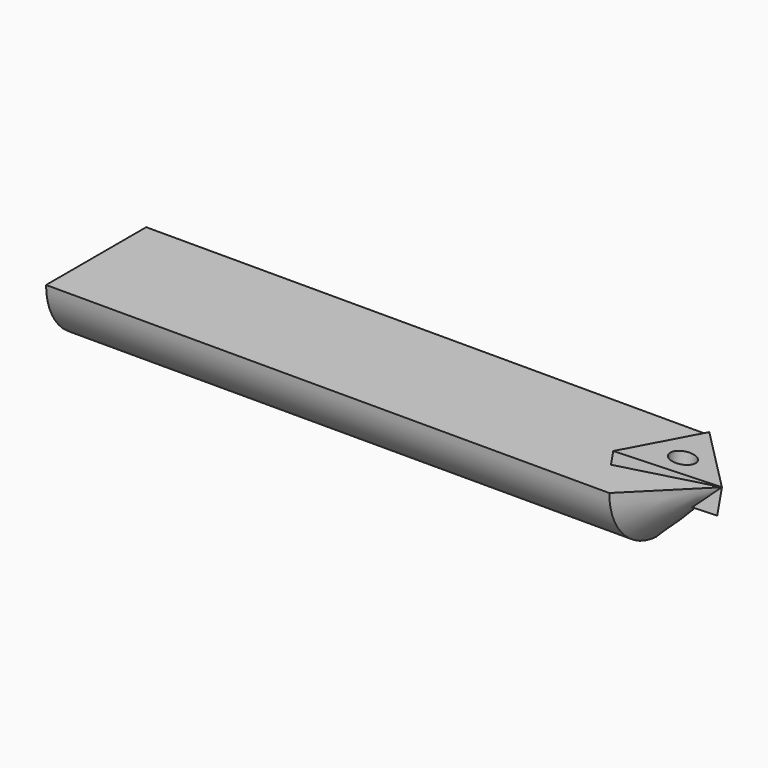
from build123d import *

# Parameters (mm, degrees)
F1_ANGLE = 180
F2_R     = 1.9
F3_DEPTH = 4
F4_ANGLE = -15
F5_ANGLE = 6
F6_ANGLE = 6
F8_R     = 1.9
F9_DEPTH = 12.5


with BuildPart() as f1:
    # F0 (on Top) → F1 (revolve)
    with BuildSketch(Plane.XY):
        Polygon((-100, 0), (0, 0), (-10, 10), (-100, 10), align=None)
    revolve(axis=Axis((-48.7976439892, 0, 0), (-1, 0, 0)), revolution_arc=F1_ANGLE)


with BuildPart() as f3:
    # F2 (on Top) → F3 (new body)
    with BuildSketch(Plane.XY):
        Polygon((-12.9903810568, -7.5), (0, 0), (-12.9903810568, 7.5), align=None)
        with Locations((-8.3442227915, 0)):
            Circle(F2_R, mode=Mode.SUBTRACT)
    extrude(amount=-F3_DEPTH)


with BuildPart() as f3_1:
    # F4: moved
    add(f3.part.rotate(Axis((0, 0, -2), (0, 0, 1)), F4_ANGLE))


with BuildPart() as f3_2:
    # F5: moved
    add(f3_1.part.rotate(Axis((0, 2.5753127411, 0), (0, 1, 0)), F5_ANGLE))


with BuildPart() as f3_3:
    # F6: moved
    add(f3_2.part.rotate(Axis((-2.1774629131, 0, 0), (-1, 0, 0)), F6_ANGLE))


with BuildPart() as f1_1:
    add(f1.part)

    # F7: cut F3
    add(f3_3.part, mode=Mode.SUBTRACT)

    # F8 (on face) → F9 (cut, symmetric)
    with BuildSketch(Plane(origin=(-0.4181138531, -0.4158233816, -3.9562952015), x_dir=(0.9945218954, -0.0109261996, -0.1039558454), z_dir=(0.1045284633, 0.1039558454, 0.9890738004))):
        with Locations((-8.0599002946, 2.159643775)):
            Circle(F8_R)
    extrude(amount=F9_DEPTH, both=True, mode=Mode.SUBTRACT)


solid = Compound([f3_3.part, f1_1.part])
